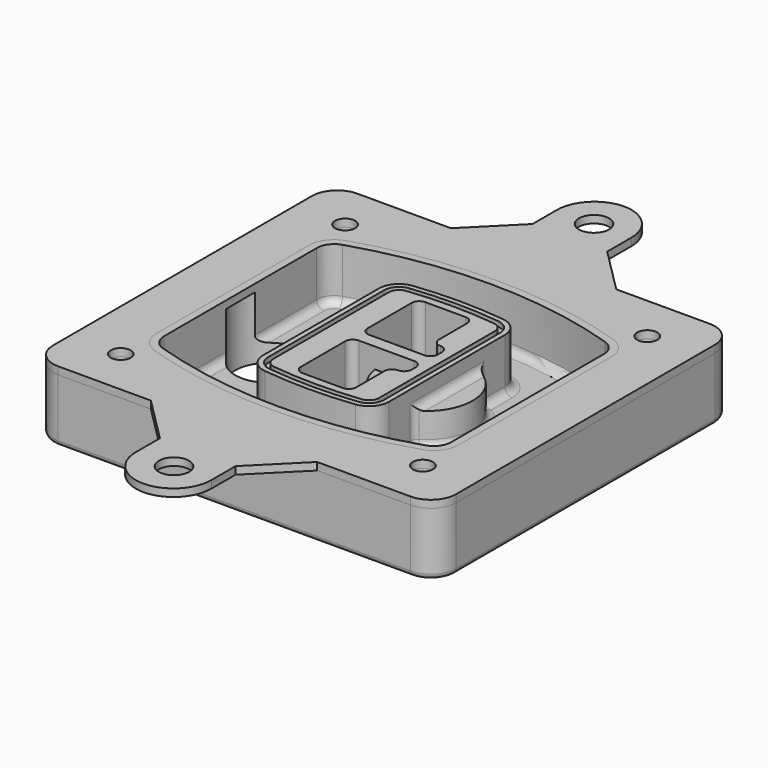
from build123d import *

# Parameters (mm, degrees)
F0_R      = 4
F1_DEPTH  = 25
F2_DEPTH  = 3
F3_DEPTH  = 18
F5_DEPTH  = 21
F6_DEPTH  = 2
F8_DEPTH  = 20
F9_DEPTH  = 16
F10_DEPTH = 25
F7_R      = 6
F7_R_2    = 4
F11_DEPTH = 6
F13_DEPTH = 9
F14_R     = 3
F15_R     = 2
F16_R     = 6
F16_R_2   = 4
F17_DEPTH = 3


with BuildPart() as f1:
    # F0 (on Top) → F1 (new body)
    with BuildSketch(Plane.XY):
        with BuildLine():
            ThreePointArc((-80, -64.25), (-77.0710678119, -71.3210678119), (-70, -74.25))
            Line((-70, -74.25), (70, -74.25))
            ThreePointArc((70, -74.25), (77.0710678119, -71.3210678119), (80, -64.25))
            Line((80, -64.25), (80, 64.25))
            ThreePointArc((80, 64.25), (77.0710678119, 71.3210678119), (70, 74.25))
            Line((70, 74.25), (-70, 74.25))
            ThreePointArc((-70, 74.25), (-77.0710678119, 71.3210678119), (-80, 64.25))
            Line((-80, 64.25), (-80, -64.25))
        make_face()
        with Locations((-60, -55.6875)):
            Circle(F0_R, mode=Mode.SUBTRACT)
        with Locations((60, -55.6875)):
            Circle(F0_R, mode=Mode.SUBTRACT)
        with Locations((-60, 55.6875)):
            Circle(F0_R, mode=Mode.SUBTRACT)
        with BuildLine():
            ThreePointArc((-64, 37.8679139701), (-61.3102148227, 46.1189163738), (-54.2744227621, 51.1994296398))
            ThreePointArc((-54.2744227621, 51.1994296398), (0, 59.6875), (54.2744227621, 51.1994296398))
            ThreePointArc((54.2744227621, 51.1994296398), (61.3102148227, 46.1189163738), (64, 37.8679139701))
            Line((64, 37.8679139701), (64, -37.8679139701))
            ThreePointArc((64, -37.8679139701), (61.3102148227, -46.1189163738), (54.2744227621, -51.1994296398))
            ThreePointArc((54.2744227621, -51.1994296398), (0, -59.6875), (-54.2744227621, -51.1994296398))
            ThreePointArc((-54.2744227621, -51.1994296398), (-61.3102148227, -46.1189163738), (-64, -37.8679139701))
            Line((-64, -37.8679139701), (-64, 37.8679139701))
        make_face(mode=Mode.SUBTRACT)
        with Locations((60, 55.6875)):
            Circle(F0_R, mode=Mode.SUBTRACT)
        with BuildLine():
            ThreePointArc((54.2744227621, 51.1994296398), (0, 59.6875), (-54.2744227621, 51.1994296398))
            ThreePointArc((-54.2744227621, 51.1994296398), (-61.3102148227, 46.1189163738), (-64, 37.8679139701))
            Line((-64, 37.8679139701), (-64, -37.8679139701))
            ThreePointArc((-64, -37.8679139701), (-61.3102148227, -46.1189163738), (-54.2744227621, -51.1994296398))
            ThreePointArc((-54.2744227621, -51.1994296398), (0, -59.6875), (54.2744227621, -51.1994296398))
            ThreePointArc((54.2744227621, -51.1994296398), (61.3102148227, -46.1189163738), (64, -37.8679139701))
            Line((64, -37.8679139701), (64, 37.8679139701))
            ThreePointArc((64, 37.8679139701), (61.3102148227, 46.1189163738), (54.2744227621, 51.1994296398))
        make_face()
        with BuildLine():
            Line((-60, -37.8679139701), (-60, 37.8679139701))
            ThreePointArc((-60, 37.8679139701), (-58.0787248733, 43.7614871156), (-53.0531591158, 47.3904251628))
            ThreePointArc((-53.0531591158, 47.3904251628), (0, 55.6875), (53.0531591158, 47.3904251628))
            ThreePointArc((53.0531591158, 47.3904251628), (58.0787248733, 43.7614871156), (60, 37.8679139701))
            Line((60, 37.8679139701), (60, -37.8679139701))
            ThreePointArc((60, -37.8679139701), (58.0787248733, -43.7614871156), (53.0531591158, -47.3904251628))
            ThreePointArc((53.0531591158, -47.3904251628), (0, -55.6875), (-53.0531591158, -47.3904251628))
            ThreePointArc((-53.0531591158, -47.3904251628), (-58.0787248733, -43.7614871156), (-60, -37.8679139701))
        make_face(mode=Mode.SUBTRACT)
        with BuildLine():
            ThreePointArc((-53.0531591158, 47.3904251628), (-58.0787248733, 43.7614871156), (-60, 37.8679139701))
            Line((-60, 37.8679139701), (-60, -37.8679139701))
            ThreePointArc((-60, -37.8679139701), (-58.0787248733, -43.7614871156), (-53.0531591158, -47.3904251628))
            ThreePointArc((-53.0531591158, -47.3904251628), (0, -55.6875), (53.0531591158, -47.3904251628))
            ThreePointArc((53.0531591158, -47.3904251628), (58.0787248733, -43.7614871156), (60, -37.8679139701))
            Line((60, -37.8679139701), (60, 37.8679139701))
            ThreePointArc((60, 37.8679139701), (58.0787248733, 43.7614871156), (53.0531591158, 47.3904251628))
            ThreePointArc((53.0531591158, 47.3904251628), (0, 55.6875), (-53.0531591158, 47.3904251628))
        make_face()
        with BuildLine():
            ThreePointArc((52.1372113811, 44.533671805), (55.6551074113, 41.993415172), (57, 37.8679139701))
            Line((57, 37.8679139701), (57, -37.8679139701))
            ThreePointArc((57, -37.8679139701), (55.6551074113, -41.993415172), (52.1372113811, -44.533671805))
            ThreePointArc((52.1372113811, -44.533671805), (0, -52.6875), (-52.1372113811, -44.533671805))
            ThreePointArc((-52.1372113811, -44.533671805), (-55.6551074113, -41.993415172), (-57, -37.8679139701))
            Line((-57, -37.8679139701), (-57, 37.8679139701))
            ThreePointArc((-57, 37.8679139701), (-55.6551074113, 41.993415172), (-52.1372113811, 44.533671805))
            ThreePointArc((-52.1372113811, 44.533671805), (0, 52.6875), (52.1372113811, 44.533671805))
        make_face(mode=Mode.SUBTRACT)
        with BuildLine():
            Line((57, -37.8679139701), (57, 37.8679139701))
            ThreePointArc((57, 37.8679139701), (55.6551074113, 41.993415172), (52.1372113811, 44.533671805))
            ThreePointArc((52.1372113811, 44.533671805), (0, 52.6875), (-52.1372113811, 44.533671805))
            ThreePointArc((-52.1372113811, 44.533671805), (-55.6551074113, 41.993415172), (-57, 37.8679139701))
            Line((-57, 37.8679139701), (-57, -37.8679139701))
            ThreePointArc((-57, -37.8679139701), (-55.6551074113, -41.993415172), (-52.1372113811, -44.533671805))
            ThreePointArc((-52.1372113811, -44.533671805), (0, -52.6875), (52.1372113811, -44.533671805))
            ThreePointArc((52.1372113811, -44.533671805), (55.6551074113, -41.993415172), (57, -37.8679139701))
        make_face()
    extrude(amount=-F1_DEPTH)

    # F0 (on Top) → F2 (join)
    with BuildSketch(Plane.XY):
        with BuildLine():
            ThreePointArc((-53.0531591158, 47.3904251628), (-58.0787248733, 43.7614871156), (-60, 37.8679139701))
            Line((-60, 37.8679139701), (-60, -37.8679139701))
            ThreePointArc((-60, -37.8679139701), (-58.0787248733, -43.7614871156), (-53.0531591158, -47.3904251628))
            ThreePointArc((-53.0531591158, -47.3904251628), (0, -55.6875), (53.0531591158, -47.3904251628))
            ThreePointArc((53.0531591158, -47.3904251628), (58.0787248733, -43.7614871156), (60, -37.8679139701))
            Line((60, -37.8679139701), (60, 37.8679139701))
            ThreePointArc((60, 37.8679139701), (58.0787248733, 43.7614871156), (53.0531591158, 47.3904251628))
            ThreePointArc((53.0531591158, 47.3904251628), (0, 55.6875), (-53.0531591158, 47.3904251628))
        make_face()
        with BuildLine():
            ThreePointArc((52.1372113811, 44.533671805), (55.6551074113, 41.993415172), (57, 37.8679139701))
            Line((57, 37.8679139701), (57, -37.8679139701))
            ThreePointArc((57, -37.8679139701), (55.6551074113, -41.993415172), (52.1372113811, -44.533671805))
            ThreePointArc((52.1372113811, -44.533671805), (0, -52.6875), (-52.1372113811, -44.533671805))
            ThreePointArc((-52.1372113811, -44.533671805), (-55.6551074113, -41.993415172), (-57, -37.8679139701))
            Line((-57, -37.8679139701), (-57, 37.8679139701))
            ThreePointArc((-57, 37.8679139701), (-55.6551074113, 41.993415172), (-52.1372113811, 44.533671805))
            ThreePointArc((-52.1372113811, 44.533671805), (0, 52.6875), (52.1372113811, 44.533671805))
        make_face(mode=Mode.SUBTRACT)
    extrude(amount=F2_DEPTH)

    # F0 (on Top) → F3 (cut)
    with BuildSketch(Plane.XY):
        with BuildLine():
            Line((57, -37.8679139701), (57, 37.8679139701))
            ThreePointArc((57, 37.8679139701), (55.6551074113, 41.993415172), (52.1372113811, 44.533671805))
            ThreePointArc((52.1372113811, 44.533671805), (0, 52.6875), (-52.1372113811, 44.533671805))
            ThreePointArc((-52.1372113811, 44.533671805), (-55.6551074113, 41.993415172), (-57, 37.8679139701))
            Line((-57, 37.8679139701), (-57, -37.8679139701))
            ThreePointArc((-57, -37.8679139701), (-55.6551074113, -41.993415172), (-52.1372113811, -44.533671805))
            ThreePointArc((-52.1372113811, -44.533671805), (0, -52.6875), (52.1372113811, -44.533671805))
            ThreePointArc((52.1372113811, -44.533671805), (55.6551074113, -41.993415172), (57, -37.8679139701))
        make_face()
    extrude(amount=-F3_DEPTH, mode=Mode.SUBTRACT)

    # F4 (on face) → F5 (join, through all)
    with BuildSketch(Plane.XY.offset(3)):
        with BuildLine():
            ThreePointArc((-25, -28.7063371133), (-22.9734015646, -34.0278475895), (-17.920381563, -36.6532168644))
            ThreePointArc((-17.920381563, -36.6532168644), (0, -37.6875), (17.920381563, -36.6532168644))
            ThreePointArc((17.920381563, -36.6532168644), (22.9734015646, -34.0278475895), (25, -28.7063371133))
            Line((25, -28.7063371133), (25, 28.7063371133))
            ThreePointArc((25, 28.7063371133), (22.9734015646, 34.0278475895), (17.920381563, 36.6532168644))
            ThreePointArc((17.920381563, 36.6532168644), (0, 37.6875), (-17.920381563, 36.6532168644))
            ThreePointArc((-17.920381563, 36.6532168644), (-22.9734015646, 34.0278475895), (-25, 28.7063371133))
            Line((-25, 28.7063371133), (-25, -28.7063371133))
        make_face()
        with BuildLine():
            ThreePointArc((17.6902861722, 34.6664969266), (21.4800511734, 32.6974699704), (23, 28.7063371133))
            Line((23, 28.7063371133), (23, -28.7063371133))
            ThreePointArc((23, -28.7063371133), (21.4800511734, -32.6974699704), (17.6902861722, -34.6664969266))
            ThreePointArc((17.6902861722, -34.6664969266), (0, -35.6875), (-17.6902861722, -34.6664969266))
            ThreePointArc((-17.6902861722, -34.6664969266), (-21.4800511734, -32.6974699704), (-23, -28.7063371133))
            Line((-23, -28.7063371133), (-23, 28.7063371133))
            ThreePointArc((-23, 28.7063371133), (-21.4800511734, 32.6974699704), (-17.6902861722, 34.6664969266))
            ThreePointArc((-17.6902861722, 34.6664969266), (0, 35.6875), (17.6902861722, 34.6664969266))
        make_face(mode=Mode.SUBTRACT)
        with BuildLine():
            Line((23, -28.7063371133), (23, 28.7063371133))
            ThreePointArc((23, 28.7063371133), (21.4800511734, 32.6974699704), (17.6902861722, 34.6664969266))
            ThreePointArc((17.6902861722, 34.6664969266), (0, 35.6875), (-17.6902861722, 34.6664969266))
            ThreePointArc((-17.6902861722, 34.6664969266), (-21.4800511734, 32.6974699704), (-23, 28.7063371133))
            Line((-23, 28.7063371133), (-23, -28.7063371133))
            ThreePointArc((-23, -28.7063371133), (-21.4800511734, -32.6974699704), (-17.6902861722, -34.6664969266))
            ThreePointArc((-17.6902861722, -34.6664969266), (0, -35.6875), (17.6902861722, -34.6664969266))
            ThreePointArc((17.6902861722, -34.6664969266), (21.4800511734, -32.6974699704), (23, -28.7063371133))
        make_face()
        with BuildLine():
            ThreePointArc((17.4601907815, 32.6797769888), (19.9867007823, 31.3670923514), (21, 28.7063371133))
            Line((21, 28.7063371133), (21, -28.7063371133))
            ThreePointArc((21, -28.7063371133), (19.9867007823, -31.3670923514), (17.4601907815, -32.6797769888))
            ThreePointArc((17.4601907815, -32.6797769888), (0, -33.6875), (-17.4601907815, -32.6797769888))
            ThreePointArc((-17.4601907815, -32.6797769888), (-19.9867007823, -31.3670923514), (-21, -28.7063371133))
            Line((-21, -28.7063371133), (-21, 28.7063371133))
            ThreePointArc((-21, 28.7063371133), (-19.9867007823, 31.3670923514), (-17.4601907815, 32.6797769888))
            ThreePointArc((-17.4601907815, 32.6797769888), (0, 33.6875), (17.4601907815, 32.6797769888))
        make_face(mode=Mode.SUBTRACT)
        with BuildLine():
            Line((21, -28.7063371133), (21, 28.7063371133))
            ThreePointArc((21, 28.7063371133), (19.9867007823, 31.3670923514), (17.4601907815, 32.6797769888))
            ThreePointArc((17.4601907815, 32.6797769888), (0, 33.6875), (-17.4601907815, 32.6797769888))
            ThreePointArc((-17.4601907815, 32.6797769888), (-19.9867007823, 31.3670923514), (-21, 28.7063371133))
            Line((-21, 28.7063371133), (-21, -28.7063371133))
            ThreePointArc((-21, -28.7063371133), (-19.9867007823, -31.3670923514), (-17.4601907815, -32.6797769888))
            ThreePointArc((-17.4601907815, -32.6797769888), (0, -33.6875), (17.4601907815, -32.6797769888))
            ThreePointArc((17.4601907815, -32.6797769888), (19.9867007823, -31.3670923514), (21, -28.7063371133))
        make_face()
        with BuildLine():
            Line((-8, -2.5), (14, -2.5))
            ThreePointArc((14, -2.5), (16.1213203436, -3.3786796564), (17, -5.5))
            Line((17, -5.5), (17, -7.5))
            ThreePointArc((17, -7.5), (16.1213203436, -9.6213203436), (14, -10.5))
            ThreePointArc((14, -10.5), (11.8786796564, -11.3786796564), (11, -13.5))
            Line((11, -13.5), (11, -27.5))
            ThreePointArc((11, -27.5), (10.1213203436, -29.6213203436), (8, -30.5))
            Line((8, -30.5), (-8, -30.5))
            ThreePointArc((-8, -30.5), (-10.1213203436, -29.6213203436), (-11, -27.5))
            Line((-11, -27.5), (-11, -5.5))
            ThreePointArc((-11, -5.5), (-10.1213203436, -3.3786796564), (-8, -2.5))
        make_face(mode=Mode.SUBTRACT)
        with BuildLine():
            ThreePointArc((-8, 2.5), (-10.1213203436, 3.3786796564), (-11, 5.5))
            Line((-11, 5.5), (-11, 27.5))
            ThreePointArc((-11, 27.5), (-10.1213203436, 29.6213203436), (-8, 30.5))
            Line((-8, 30.5), (8, 30.5))
            ThreePointArc((8, 30.5), (10.1213203436, 29.6213203436), (11, 27.5))
            Line((11, 27.5), (11, 13.5))
            ThreePointArc((11, 13.5), (11.8786796564, 11.3786796564), (14, 10.5))
            ThreePointArc((14, 10.5), (16.1213203436, 9.6213203436), (17, 7.5))
            Line((17, 7.5), (17, 5.5))
            ThreePointArc((17, 5.5), (16.1213203436, 3.3786796564), (14, 2.5))
            Line((14, 2.5), (-8, 2.5))
        make_face(mode=Mode.SUBTRACT)
    extrude(amount=-F5_DEPTH)

    # F4 (on face) → F6 (cut)
    with BuildSketch(Plane.XY.offset(3)):
        with BuildLine():
            Line((23, -28.7063371133), (23, 28.7063371133))
            ThreePointArc((23, 28.7063371133), (21.4800511734, 32.6974699704), (17.6902861722, 34.6664969266))
            ThreePointArc((17.6902861722, 34.6664969266), (0, 35.6875), (-17.6902861722, 34.6664969266))
            ThreePointArc((-17.6902861722, 34.6664969266), (-21.4800511734, 32.6974699704), (-23, 28.7063371133))
            Line((-23, 28.7063371133), (-23, -28.7063371133))
            ThreePointArc((-23, -28.7063371133), (-21.4800511734, -32.6974699704), (-17.6902861722, -34.6664969266))
            ThreePointArc((-17.6902861722, -34.6664969266), (0, -35.6875), (17.6902861722, -34.6664969266))
            ThreePointArc((17.6902861722, -34.6664969266), (21.4800511734, -32.6974699704), (23, -28.7063371133))
        make_face()
        with BuildLine():
            ThreePointArc((17.4601907815, 32.6797769888), (19.9867007823, 31.3670923514), (21, 28.7063371133))
            Line((21, 28.7063371133), (21, -28.7063371133))
            ThreePointArc((21, -28.7063371133), (19.9867007823, -31.3670923514), (17.4601907815, -32.6797769888))
            ThreePointArc((17.4601907815, -32.6797769888), (0, -33.6875), (-17.4601907815, -32.6797769888))
            ThreePointArc((-17.4601907815, -32.6797769888), (-19.9867007823, -31.3670923514), (-21, -28.7063371133))
            Line((-21, -28.7063371133), (-21, 28.7063371133))
            ThreePointArc((-21, 28.7063371133), (-19.9867007823, 31.3670923514), (-17.4601907815, 32.6797769888))
            ThreePointArc((-17.4601907815, 32.6797769888), (0, 33.6875), (17.4601907815, 32.6797769888))
        make_face(mode=Mode.SUBTRACT)
    extrude(amount=-F6_DEPTH, mode=Mode.SUBTRACT)

    # F7 (on face) → F8 (join)
    with BuildSketch(Plane(origin=(0, 0, -25), x_dir=(1, 0, 0), z_dir=(0, 0, -1))):
        with BuildLine():
            ThreePointArc((3.28842436, 0), (16.7567035675, 13.4682792075), (30.224982775, 0))
            Line((30.224982775, 0), (35.224982775, 0))
            ThreePointArc((35.224982775, 0), (16.7567035675, 18.4682792075), (-1.71157564, 0))
            Line((-1.71157564, 0), (3.28842436, 0))
        make_face()
        with BuildLine():
            Line((3.28842436, 0), (30.224982775, 0))
            ThreePointArc((30.224982775, 0), (16.7567035675, 13.4682792075), (3.28842436, 0))
        make_face()
        with BuildLine():
            ThreePointArc((3.28842436, 0), (16.7567035675, -13.4682792075), (30.224982775, 0))
            Line((30.224982775, 0), (3.28842436, 0))
        make_face()
        with BuildLine():
            Line((35.224982775, 0), (30.224982775, 0))
            ThreePointArc((30.224982775, 0), (16.7567035675, -13.4682792075), (3.28842436, 0))
            Line((3.28842436, 0), (-1.71157564, 0))
            ThreePointArc((-1.71157564, 0), (16.7567035675, -18.4682792075), (35.224982775, 0))
        make_face()
    extrude(amount=-F8_DEPTH)

    # F7 (on face) → F9 (cut)
    with BuildSketch(Plane(origin=(0, 0, -25), x_dir=(1, 0, 0), z_dir=(0, 0, -1))):
        with BuildLine():
            Line((3.28842436, 0), (30.224982775, 0))
            ThreePointArc((30.224982775, 0), (16.7567035675, 13.4682792075), (3.28842436, 0))
        make_face()
        with BuildLine():
            ThreePointArc((3.28842436, 0), (16.7567035675, -13.4682792075), (30.224982775, 0))
            Line((30.224982775, 0), (3.28842436, 0))
        make_face()
    extrude(amount=-F9_DEPTH, mode=Mode.SUBTRACT)

    # F7 (on face) → F10 (cut)
    with BuildSketch(Plane(origin=(0, 0, -25), x_dir=(1, 0, 0), z_dir=(0, 0, -1))):
        with BuildLine():
            Line((-59.0318229325, 0), (-32.0952645175, 0))
            ThreePointArc((-32.0952645175, 0), (-45.563543725, 13.4682792075), (-59.0318229325, 0))
        make_face()
        with BuildLine():
            ThreePointArc((-59.0318229325, 0), (-45.563543725, -13.4682792075), (-32.0952645175, 0))
            Line((-32.0952645175, 0), (-59.0318229325, 0))
        make_face()
    extrude(amount=-F10_DEPTH, mode=Mode.SUBTRACT)

    # F7 (on face) → F11 (cut)
    with BuildSketch(Plane(origin=(0, 0, -25), x_dir=(1, 0, 0), z_dir=(0, 0, -1))):
        with Locations((60, -55.6875)):
            Circle(F7_R)
        with Locations((60, -55.6875)):
            Circle(F7_R_2, mode=Mode.SUBTRACT)
        with Locations((60, -55.6875)):
            Circle(F7_R)
        with Locations((60, -55.6875)):
            Circle(F7_R_2, mode=Mode.SUBTRACT)
        with Locations((-60, -55.6875)):
            Circle(F7_R)
        with Locations((-60, -55.6875)):
            Circle(F7_R_2, mode=Mode.SUBTRACT)
        with Locations((-60, -55.6875)):
            Circle(F7_R)
        with Locations((-60, -55.6875)):
            Circle(F7_R_2, mode=Mode.SUBTRACT)
        with Locations((-60, 55.6875)):
            Circle(F7_R)
        with Locations((-60, 55.6875)):
            Circle(F7_R_2, mode=Mode.SUBTRACT)
        with Locations((-60, 55.6875)):
            Circle(F7_R)
        with Locations((-60, 55.6875)):
            Circle(F7_R_2, mode=Mode.SUBTRACT)
        with Locations((60, 55.6875)):
            Circle(F7_R)
        with Locations((60, 55.6875)):
            Circle(F7_R_2, mode=Mode.SUBTRACT)
        with Locations((60, 55.6875)):
            Circle(F7_R)
        with Locations((60, 55.6875)):
            Circle(F7_R_2, mode=Mode.SUBTRACT)
    extrude(amount=-F11_DEPTH, mode=Mode.SUBTRACT)

    # F12 (on face) → F13 (cut, through all)
    with BuildSketch(Plane(origin=(0, 0, -9), x_dir=(1, 0, 0), z_dir=(0, 0, -1))):
        with BuildLine():
            Line((11, 13.5), (11, 17.5481537753))
            ThreePointArc((11, 17.5481537753), (2.5696536419, 11.8239143813), (-1.5415842455, 2.5))
            Line((-1.5415842455, 2.5), (3.5224848595, 2.5))
            ThreePointArc((3.5224848595, 2.5), (6.1857188154, 8.3455872281), (11.2536447004, 12.2927168648))
            ThreePointArc((11.2536447004, 12.2927168648), (11.0640958889, 12.8831798879), (11, 13.5))
        make_face()
        with BuildLine():
            ThreePointArc((11.2536447004, -12.2927168648), (6.1857188154, -8.3455872281), (3.5224848595, -2.5))
            Line((3.5224848595, -2.5), (-1.5415842455, -2.5))
            ThreePointArc((-1.5415842455, -2.5), (2.5696536419, -11.8239143813), (11, -17.5481537753))
            Line((11, -17.5481537753), (11, -13.5))
            ThreePointArc((11, -13.5), (11.0640958889, -12.8831798879), (11.2536447004, -12.2927168648))
        make_face()
        with BuildLine():
            ThreePointArc((11.2536447004, 12.2927168648), (6.1857188154, 8.3455872281), (3.5224848595, 2.5))
            Line((3.5224848595, 2.5), (14, 2.5))
            ThreePointArc((14, 2.5), (16.1213203436, 3.3786796564), (17, 5.5))
            Line((17, 5.5), (17, 7.5))
            ThreePointArc((17, 7.5), (16.1213203436, 9.6213203436), (14, 10.5))
            ThreePointArc((14, 10.5), (12.3601599782, 10.9878446101), (11.2536447004, 12.2927168648))
        make_face()
        with BuildLine():
            Line((14, -2.5), (3.5224848595, -2.5))
            ThreePointArc((3.5224848595, -2.5), (6.1857188154, -8.3455872281), (11.2536447004, -12.2927168648))
            ThreePointArc((11.2536447004, -12.2927168648), (12.3601599782, -10.9878446101), (14, -10.5))
            ThreePointArc((14, -10.5), (16.1213203436, -9.6213203436), (17, -7.5))
            Line((17, -7.5), (17, -5.5))
            ThreePointArc((17, -5.5), (16.1213203436, -3.3786796564), (14, -2.5))
        make_face()
    extrude(amount=F13_DEPTH, mode=Mode.SUBTRACT)

    # F14
    f14_edges = [f1.edges().sort_by_distance(p)[0] for p in [
        (-57, -22.490712, -18),
        (-57, 22.490712, -18),
        (25, 0, -5),
        (25, 16.526506, -11.5),
        (25, -16.526506, -11.5),
        (25, -22.616422, -18),
        (35.224983, 0, -18),
    ]]
    fillet(f14_edges, radius=F14_R)

    # F15
    f15_edges = [f1.edges().sort_by_distance(p)[0] for p in [
        (0, -74.25, -25),
    ]]
    fillet(f15_edges, radius=F15_R)


with BuildPart() as f17:
    # F16 (on face) → F17 (new body, through all)
    with BuildSketch(Plane.XY):
        with BuildLine():
            Line((14.831, 92.25), (14.831, 104.25))
            ThreePointArc((14.831, 104.25), (10.497184885, 114.7966819427), (0, 119.2490479365))
            ThreePointArc((0, 119.2490479365), (-10.497184885, 114.7966819427), (-14.831, 104.25))
            Line((-14.831, 104.25), (-14.831, 92.25))
            Line((-14.831, 92.25), (-32.831, 74.25))
            Line((-32.831, 74.25), (32.831, 74.25))
            Line((32.831, 74.25), (14.831, 92.25))
        make_face()
        with Locations((0, 104.25)):
            Circle(F16_R, mode=Mode.SUBTRACT)
        with BuildLine():
            Line((70, 74.25), (32.831, 74.25))
            Line((32.831, 74.25), (-32.831, 74.25))
            Line((-32.831, 74.25), (-33.169, 74.25))
            Line((-33.169, 74.25), (-70, 74.25))
            ThreePointArc((-70, 74.25), (-77.0710678119, 71.3210678119), (-80, 64.25))
            Line((-80, 64.25), (-80, -64.25))
            ThreePointArc((-80, -64.25), (-77.0710678119, -71.3210678119), (-70, -74.25))
            Line((-70, -74.25), (-33.169, -74.25))
            Line((-33.169, -74.25), (32.831, -74.25))
            Line((32.831, -74.25), (70, -74.25))
            ThreePointArc((70, -74.25), (77.0710678119, -71.3210678119), (80, -64.25))
            Line((80, -64.25), (80, 64.25))
            ThreePointArc((80, 64.25), (77.0710678119, 71.3210678119), (70, 74.25))
        make_face()
        with Locations((-60, -55.6875)):
            Circle(F16_R_2, mode=Mode.SUBTRACT)
        with Locations((60, -55.6875)):
            Circle(F16_R_2, mode=Mode.SUBTRACT)
        with Locations((-60, 55.6875)):
            Circle(F16_R_2, mode=Mode.SUBTRACT)
        with BuildLine():
            Line((-60, -37.8679139701), (-60, 37.8679139701))
            ThreePointArc((-60, 37.8679139701), (-58.0787248733, 43.7614871156), (-53.0531591158, 47.3904251628))
            ThreePointArc((-53.0531591158, 47.3904251628), (0, 55.6875), (53.0531591158, 47.3904251628))
            ThreePointArc((53.0531591158, 47.3904251628), (58.0787248733, 43.7614871156), (60, 37.8679139701))
            Line((60, 37.8679139701), (60, -37.8679139701))
            ThreePointArc((60, -37.8679139701), (58.0787248733, -43.7614871156), (53.0531591158, -47.3904251628))
            ThreePointArc((53.0531591158, -47.3904251628), (0, -55.6875), (-53.0531591158, -47.3904251628))
            ThreePointArc((-53.0531591158, -47.3904251628), (-58.0787248733, -43.7614871156), (-60, -37.8679139701))
        make_face(mode=Mode.SUBTRACT)
        with Locations((60, 55.6875)):
            Circle(F16_R_2, mode=Mode.SUBTRACT)
        with BuildLine():
            Line((14.831, -92.25), (32.831, -74.25))
            Line((32.831, -74.25), (-33.169, -74.25))
            Line((-33.169, -74.25), (-15.169, -92.25))
            Line((-15.169, -92.25), (-15.169, -104.25))
            ThreePointArc((-15.169, -104.25), (-0.169, -119.25), (14.831, -104.25))
            Line((14.831, -104.25), (14.831, -92.25))
        make_face()
        with Locations((0, -104.25)):
            Circle(F16_R, mode=Mode.SUBTRACT)
    extrude(amount=F17_DEPTH)


solid = Compound([f1.part, f17.part])
